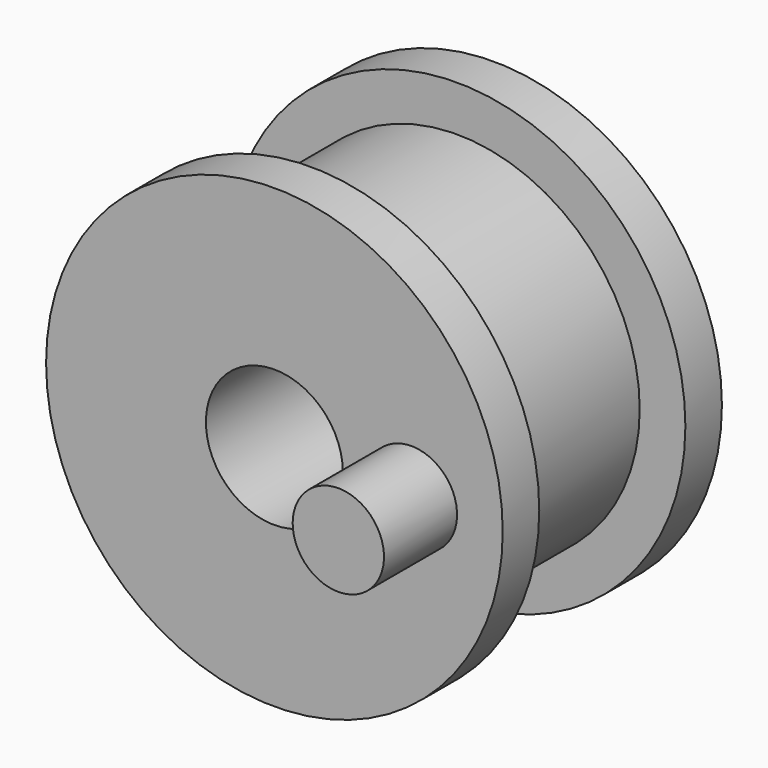
from build123d import *

# Parameters (mm, degrees)
F0_R     = 15.875
F0_R_2   = 4.7625
F1_DEPTH = 3.175
F2_R     = 12.7
F2_R_2   = 4.7625
F3_DEPTH = 12.7
F4_R     = 15.875
F4_R_2   = 12.7
F4_R_3   = 4.7625
F5_DEPTH = 3.175
F7_DEPTH = 6.35


with BuildPart() as f1:
    # F0 (on Front) → F1 (new body)
    with BuildSketch(Plane.XZ):
        Circle(F0_R)
        Circle(F0_R_2, mode=Mode.SUBTRACT)
    extrude(amount=F1_DEPTH)

    # F2 (on face) → F3 (join)
    with BuildSketch(Plane.XZ.offset(3.175)):
        Circle(F2_R)
        Circle(F2_R_2, mode=Mode.SUBTRACT)
    extrude(amount=F3_DEPTH)

    # F4 (on face) → F5 (join)
    with BuildSketch(Plane.XZ.offset(15.875)):
        Circle(F4_R)
        Circle(F4_R_2, mode=Mode.SUBTRACT)
        Circle(F4_R_2)
        Circle(F4_R_3, mode=Mode.SUBTRACT)
    extrude(amount=F5_DEPTH)

    # F6 (on face) → F7 (join)
    with BuildSketch(Plane.XZ.offset(19.05)):
        with BuildLine():
            ThreePointArc((12.7, 0), (9.525, 3.175), (6.35, 0))
            ThreePointArc((6.35, 0), (9.525, -3.175), (12.7, 0))
        make_face()
    extrude(amount=F7_DEPTH)


solid = f1.part
